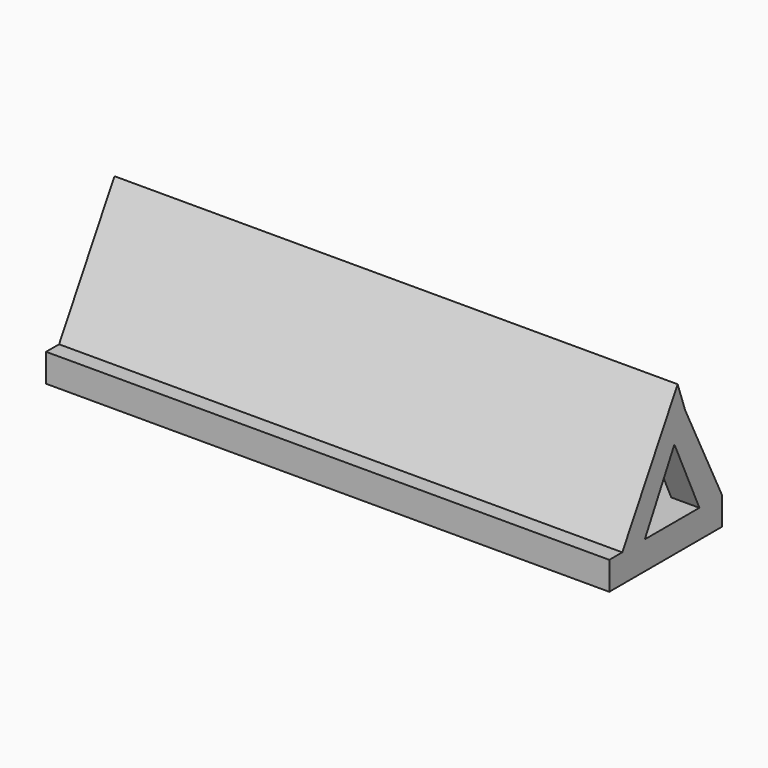
from build123d import *

# Parameters (mm, degrees)
F0_W      = 50.8
F0_H      = 12.7
F1_DEPTH  = 2.54
F3_DEPTH  = 50.8
F5_DEPTH  = 50.8
F7_DEPTH  = 50.8
F8_R      = 0.7792520308
F9_DEPTH  = 25.4
F11_DEPTH = 50.8
F13_W     = 2.54
F13_H     = 2.54
F12_W     = 2.54
F12_H     = 2.54
F16_W     = 2.54
F16_H     = 2.54
F15_W     = 2.54
F15_H     = 2.54


with BuildPart() as f1:
    # F0 (on Top) → F1 (new body)
    with BuildSketch(Plane.XY):
        with Locations((25.4, 6.35)):
            Rectangle(F0_W, F0_H)
    extrude(amount=F1_DEPTH)

    # F2 (on Right) → F3 (join)
    with BuildSketch(Plane.YZ):
        Polygon((7.7083574152, 13.351266686), (0, 0), (12.3911025003, 0), align=None)
    extrude(amount=F3_DEPTH)

    # F4 (on face) → F5 (cut)
    with BuildSketch(Plane.YZ.offset(50.8)):
        Polygon((8.549014916, 10.9544156338), (4.0064696837, 2.54), (11.5002377759, 2.54), align=None)
    extrude(amount=-F5_DEPTH, mode=Mode.SUBTRACT)



with BuildPart() as f7:
    # F6 (on face) → F7 (new body)
    with BuildSketch(Plane.YZ.offset(50.8)):
        Polygon((5.2130930665, 4.775097316), (4.0064696837, 2.54), (6.5464696837, 2.54), align=None)
    extrude(amount=-F7_DEPTH)


with BuildPart() as f1_1:
    add(f1.part)

    add(f7.part)  # F9 merges F7
    # F8 (on face) → F9 (join)
    with BuildSketch(Plane.YZ.offset(50.8)):
        with Locations((4.0064696837, 2.54)):
            Circle(F8_R)
    extrude(amount=-F9_DEPTH)

    # F10 (on face) → F11 (cut)
    with BuildSketch(Plane.YZ.offset(50.8)):
        Polygon((4.0064696837, 2.54), (6.5464696837, 2.54), (5.2130930665, 4.775097316), align=None)
    extrude(amount=-F11_DEPTH, mode=Mode.SUBTRACT)

    # F13 (on face) → F14 section 0
    with BuildSketch(Plane(origin=(0, 2.0405452679, -1.1015939289), x_dir=(-1, 0, 0), z_dir=(0, 0.8799595732, -0.4750485759))):
        with Locations((-49.53, 12.4306402674)):
            Rectangle(F13_W, F13_H)
    # F12 (on face) → F14 section 1
    with BuildSketch(Plane.XY.offset(2.54)):
        with Locations((49.53, 11.43)):
            Rectangle(F12_W, F12_H)
    loft()

    # F16 (on face) → F17 section 0
    with BuildSketch(Plane(origin=(0, 2.0405452679, -1.1015939289), x_dir=(-1, 0, 0), z_dir=(0, 0.8799595732, -0.4750485759))):
        with Locations((-1.27, 12.4306402674)):
            Rectangle(F16_W, F16_H)
    # F15 (on face) → F17 section 1
    with BuildSketch(Plane.XY.offset(2.54)):
        with Locations((1.27, 11.43)):
            Rectangle(F15_W, F15_H)
    loft()


solid = f1_1.part
